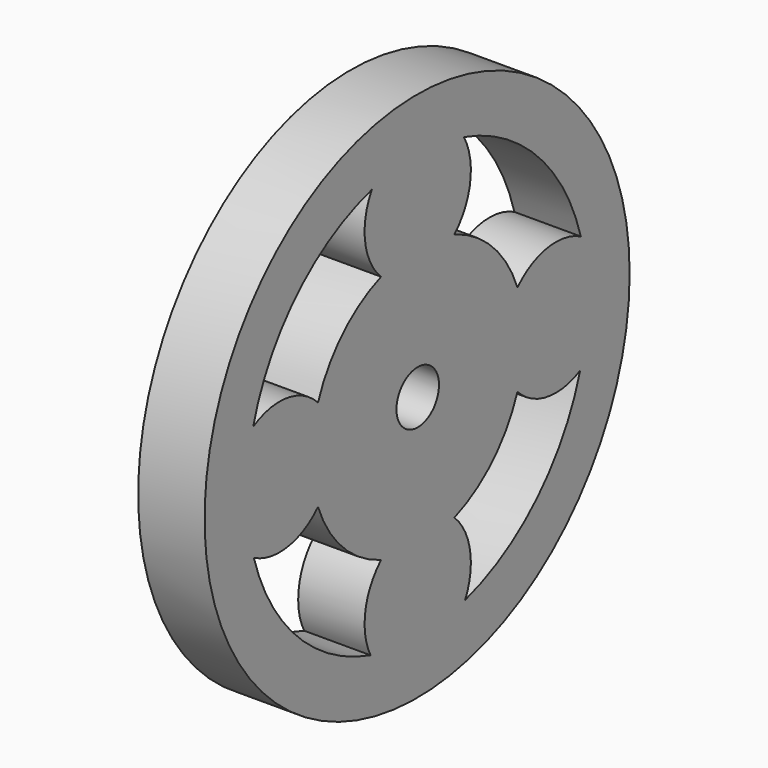
from build123d import *

# Parameters (mm, degrees)
BOX006_W                = 10
BOX006_H                = 45
BOX006_DEPTH            = 45
BOX004_W                = 10
BOX004_H                = 45
BOX004_DEPTH            = 45
CYLINDER012_R           = 5
CYLINDER012_DEPTH       = 10
CYLINDER012_PITCH_ANGLE = 90
SKETCH005_R             = 20
SKETCH005_R_2           = 16
PAD010_DEPTH            = 5
CYLINDER014_R           = 5
CYLINDER014_DEPTH       = 10
CYLINDER014_PITCH_ANGLE = 90
CYLINDER016_R           = 5
CYLINDER016_DEPTH       = 10
CYLINDER016_PITCH_ANGLE = 90
CYLINDER015_R           = 5
CYLINDER015_DEPTH       = 10
CYLINDER015_PITCH_ANGLE = 90
CYLINDER013_R           = 2
CYLINDER013_DEPTH       = 30
CYLINDER013_PITCH_ANGLE = 90
CYLINDER017_R           = 10
CYLINDER017_DEPTH       = 10
CYLINDER017_PITCH_ANGLE = 90


with BuildPart() as cube006:
    # Box006 → Box006 (new body)
    with BuildSketch(Plane(origin=(-10, -54, -57), x_dir=(1, 0, 0), z_dir=(0, 0, 1))):
        with Locations((5, 22.5)):
            Rectangle(BOX006_W, BOX006_H)
    extrude(amount=BOX006_DEPTH)


with BuildPart() as cube004:
    # Box004 → Box004 (new body)
    with BuildSketch(Plane(origin=(5, -54, -57), x_dir=(1, 0, 0), z_dir=(0, 0, 1))):
        with Locations((5, 22.5)):
            Rectangle(BOX004_W, BOX004_H)
    extrude(amount=BOX004_DEPTH)


with BuildPart() as cylinder:
    # Cylinder012 → Cylinder012 (new body)
    with BuildSketch(Plane.XY):
        Circle(CYLINDER012_R)
    extrude(amount=CYLINDER012_DEPTH)


with BuildPart() as cylinder_1:
    # Cylinder012 pitch: moved
    add(cylinder.part.rotate(Axis((0, 0, 0), (0, 1, 0)), CYLINDER012_PITCH_ANGLE))


with BuildPart() as cylinder_2:
    # Cylinder012 placement: moved
    add(cylinder_1.part.moved(Location((-2, -30.5, -21.5))))


with BuildPart() as fusion012:
    # Sketch005 → Pad010 (new body)
    with BuildSketch(Plane.YZ):
        with Locations((-30.558836, -34.409251)):
            Circle(SKETCH005_R)
        with Locations((-30.558836, -34.409251)):
            Circle(SKETCH005_R_2, mode=Mode.SUBTRACT)
    extrude(amount=PAD010_DEPTH)

    # Fusion012: union Cylinder
    add(cylinder_2.part)


with BuildPart() as fusion013:
    # Cylinder014 → Cylinder014 (new body)
    with BuildSketch(Plane.XY):
        Circle(CYLINDER014_R)
    extrude(amount=CYLINDER014_DEPTH)


with BuildPart() as fusion013_1:
    # Cylinder014 pitch: moved
    add(fusion013.part.rotate(Axis((0, 0, 0), (0, 1, 0)), CYLINDER014_PITCH_ANGLE))


with BuildPart() as fusion013_2:
    # Cylinder014 placement: moved
    add(fusion013_1.part.moved(Location((-2, -43.5, -34.5))))

    # Fusion013: union Fusion012
    add(fusion012.part)


with BuildPart() as fusion014:
    # Cylinder016 → Cylinder016 (new body)
    with BuildSketch(Plane.XY):
        Circle(CYLINDER016_R)
    extrude(amount=CYLINDER016_DEPTH)


with BuildPart() as fusion014_1:
    # Cylinder016 pitch: moved
    add(fusion014.part.rotate(Axis((0, 0, 0), (0, 1, 0)), CYLINDER016_PITCH_ANGLE))


with BuildPart() as fusion014_2:
    # Cylinder016 placement: moved
    add(fusion014_1.part.moved(Location((-2, -30.5, -47.5))))

    # Fusion014: union Fusion013
    add(fusion013_2.part)


with BuildPart() as fusion015:
    # Cylinder015 → Cylinder015 (new body)
    with BuildSketch(Plane.XY):
        Circle(CYLINDER015_R)
    extrude(amount=CYLINDER015_DEPTH)


with BuildPart() as fusion015_1:
    # Cylinder015 pitch: moved
    add(fusion015.part.rotate(Axis((0, 0, 0), (0, 1, 0)), CYLINDER015_PITCH_ANGLE))


with BuildPart() as fusion015_2:
    # Cylinder015 placement: moved
    add(fusion015_1.part.moved(Location((-3, -17.5, -34.5))))

    # Fusion015: union Fusion014
    add(fusion014_2.part)


with BuildPart() as cylinder011:
    # Cylinder013 → Cylinder013 (new body)
    with BuildSketch(Plane.XY):
        Circle(CYLINDER013_R)
    extrude(amount=CYLINDER013_DEPTH)


with BuildPart() as cylinder011_1:
    # Cylinder013 pitch: moved
    add(cylinder011.part.rotate(Axis((0, 0, 0), (0, 1, 0)), CYLINDER013_PITCH_ANGLE))


with BuildPart() as cylinder011_2:
    # Cylinder013 placement: moved
    add(cylinder011_1.part.moved(Location((-12, -30.5, -34.5))))


with BuildPart() as cut009:
    # Cylinder017 → Cylinder017 (new body)
    with BuildSketch(Plane.XY):
        Circle(CYLINDER017_R)
    extrude(amount=CYLINDER017_DEPTH)


with BuildPart() as cut009_1:
    # Cylinder017 pitch: moved
    add(cut009.part.rotate(Axis((0, 0, 0), (0, 1, 0)), CYLINDER017_PITCH_ANGLE))


with BuildPart() as cut009_2:
    # Cylinder017 placement: moved
    add(cut009_1.part.moved(Location((-2, -30.5, -34.5))))

    # Cut006: cut Cylinder011
    add(cylinder011_2.part, mode=Mode.SUBTRACT)

    # Fusion016: union Fusion015
    add(fusion015_2.part)

    # Cut010: cut Cube004
    add(cube004.part, mode=Mode.SUBTRACT)

    # Cut009: cut Cube006
    add(cube006.part, mode=Mode.SUBTRACT)


with BuildPart() as cut009_3:
    # Cut009 placement: moved
    add(cut009_2.part.moved(Location((-57.5, -10.5, 45.5))))


solid = cut009_3.part
